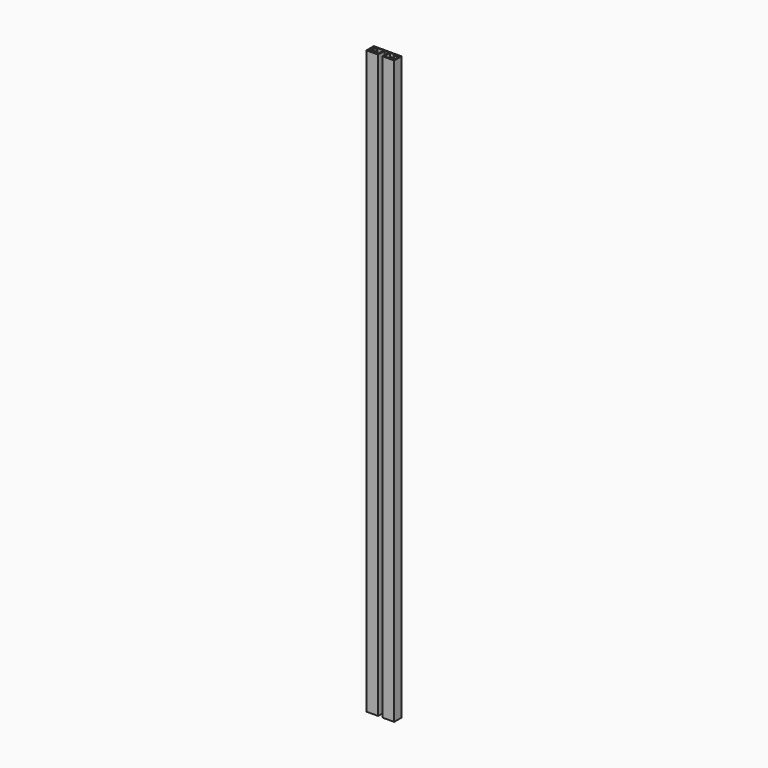
from build123d import *

# Parameters (mm, degrees)
F1_DEPTH = 504


with BuildPart() as f1:
    # F0 (on Top) → F1 (new body)
    with BuildSketch(Plane.XY):
        Polygon((12, 4), (-12, 4), (-12, -4), (-1.9, -4), (-1.9, 2.8), (1.9, 2.8), (1.9, -4), (12, -4), align=None)
        with BuildLine():
            Line((-9.623275, -3.2), (-11.2, -3.2))
            Line((-11.2, -3.2), (-11.2, 3.2))
            Line((-11.2, 3.2), (-9.623275, 3.2))
            ThreePointArc((-9.623275, 3.2), (-9.422747, 2.985045), (-9.502111, 2.701993))
            Line((-9.502111, 2.701993), (-10.097086, 2.107018))
            ThreePointArc((-10.097086, 2.107018), (-10.312788, 1.783105), (-10.388512, 1.401382))
            Line((-10.388512, 1.401382), (-10.388512, 1.218503))
            ThreePointArc((-10.388512, 1.218503), (-10.25826, 1.031059), (-10.03716, 1.087764))
            ThreePointArc((-10.03716, 1.087764), (-8.786443, 1.659163), (-7.537162, 1.084629))
            ThreePointArc((-7.537162, 1.084629), (-7.316853, 1.031709), (-7.188512, 1.218431))
            Line((-7.188512, 1.218431), (-7.188512, 1.397588))
            ThreePointArc((-7.188512, 1.397588), (-7.264631, 1.780269), (-7.481401, 2.104691))
            Line((-7.481401, 2.104691), (-8.076376, 2.699666))
            ThreePointArc((-8.076376, 2.699666), (-8.154767, 2.986603), (-7.947546, 3.2))
            Line((-7.947546, 3.2), (-2.8, 3.2))
            Line((-2.8, 3.2), (-2.8, -3.2))
            Line((-2.8, -3.2), (-7.947546, -3.2))
            ThreePointArc((-7.947546, -3.2), (-8.154767, -2.986603), (-8.076376, -2.699666))
            Line((-8.076376, -2.699666), (-7.481401, -2.104691))
            ThreePointArc((-7.481401, -2.104691), (-7.264631, -1.780269), (-7.188512, -1.397588))
            Line((-7.188512, -1.397588), (-7.188512, -1.218431))
            ThreePointArc((-7.188512, -1.218431), (-7.316853, -1.031709), (-7.537162, -1.084629))
            ThreePointArc((-7.537162, -1.084629), (-8.786443, -1.659163), (-10.03716, -1.087764))
            ThreePointArc((-10.03716, -1.087764), (-10.25826, -1.031059), (-10.388512, -1.218503))
            Line((-10.388512, -1.218503), (-10.388512, -1.401382))
            ThreePointArc((-10.388512, -1.401382), (-10.312788, -1.783105), (-10.097086, -2.107018))
            Line((-10.097086, -2.107018), (-9.502111, -2.701993))
            ThreePointArc((-9.502111, -2.701993), (-9.422747, -2.985045), (-9.623275, -3.2))
        make_face(mode=Mode.SUBTRACT)
        with BuildLine():
            Line((7.188512, 1.397588), (7.188512, 1.218431))
            ThreePointArc((7.188512, 1.218431), (7.316853, 1.031709), (7.537162, 1.084629))
            ThreePointArc((7.537162, 1.084629), (8.786443, 1.659163), (10.03716, 1.087764))
            ThreePointArc((10.03716, 1.087764), (10.25826, 1.031059), (10.388512, 1.218503))
            Line((10.388512, 1.218503), (10.388512, 1.401382))
            ThreePointArc((10.388512, 1.401382), (10.312788, 1.783105), (10.097086, 2.107018))
            Line((10.097086, 2.107018), (9.502111, 2.701993))
            ThreePointArc((9.502111, 2.701993), (9.422747, 2.985045), (9.623275, 3.2))
            Line((9.623275, 3.2), (11.2, 3.2))
            Line((11.2, 3.2), (11.2, -3.2))
            Line((11.2, -3.2), (9.623275, -3.2))
            ThreePointArc((9.623275, -3.2), (9.422747, -2.985045), (9.502111, -2.701993))
            Line((9.502111, -2.701993), (10.097086, -2.107018))
            ThreePointArc((10.097086, -2.107018), (10.312788, -1.783105), (10.388512, -1.401382))
            Line((10.388512, -1.401382), (10.388512, -1.218503))
            ThreePointArc((10.388512, -1.218503), (10.25826, -1.031059), (10.03716, -1.087764))
            ThreePointArc((10.03716, -1.087764), (8.786443, -1.659163), (7.537162, -1.084629))
            ThreePointArc((7.537162, -1.084629), (7.316853, -1.031709), (7.188512, -1.218431))
            Line((7.188512, -1.218431), (7.188512, -1.397588))
            ThreePointArc((7.188512, -1.397588), (7.264631, -1.780269), (7.481401, -2.104691))
            Line((7.481401, -2.104691), (8.076376, -2.699666))
            ThreePointArc((8.076376, -2.699666), (8.154767, -2.986603), (7.947546, -3.2))
            Line((7.947546, -3.2), (2.8, -3.2))
            Line((2.8, -3.2), (2.8, 3.2))
            Line((2.8, 3.2), (7.947546, 3.2))
            ThreePointArc((7.947546, 3.2), (8.154767, 2.986603), (8.076376, 2.699666))
            Line((8.076376, 2.699666), (7.481401, 2.104691))
            ThreePointArc((7.481401, 2.104691), (7.264631, 1.780269), (7.188512, 1.397588))
        make_face(mode=Mode.SUBTRACT)
    extrude(amount=F1_DEPTH)


solid = f1.part
